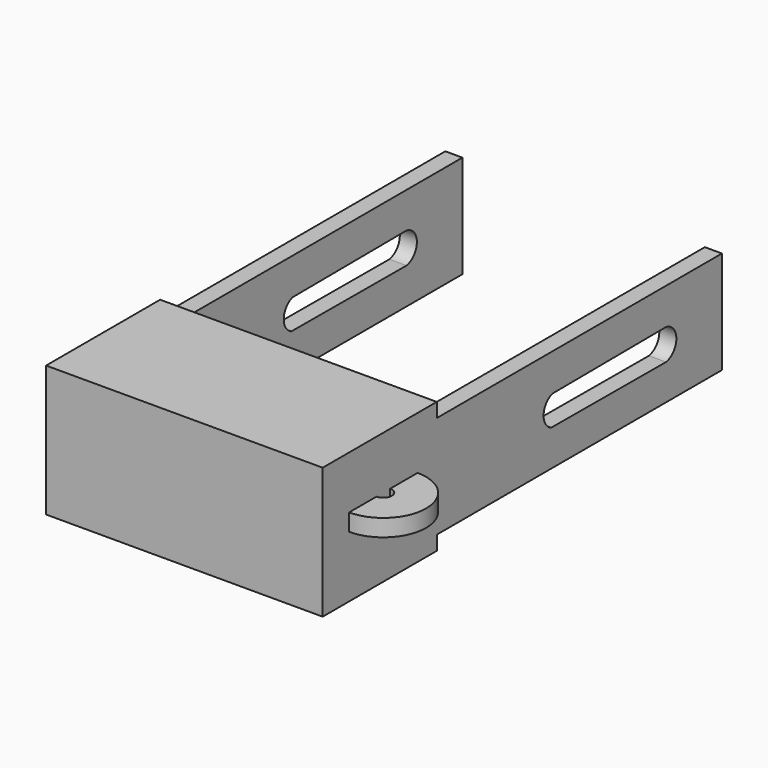
from build123d import *

# Parameters (mm, degrees)
F1_DEPTH = 19.4
F2_DEPTH = 1.2
F3_W     = 25
F3_H     = 7.2
F4_DEPTH = 1.2
F5_W     = 16.95
F5_H     = 7.1
F6_DEPTH = 9
F7_W     = 2.4
F7_H     = 1.2
F8_ANGLE = 180


with BuildPart() as f1:
    # F0 (on Right) → F1 (new body)
    with BuildSketch(Plane.YZ):
        Polygon((-8.6684125125, 6.8394026556), (-18.6684125125, 6.8394026556), (-18.6684125125, -2.3605973444), (-8.6684125125, -2.3605973444), (-8.6684125125, -1.3605973444), (-8.6684125125, 2.2394026556), (-8.6684125125, 5.8394026556), align=None)
    extrude(amount=F1_DEPTH)

    # F0 (on Right) → F2 (join)
    with BuildSketch(Plane.YZ):
        Polygon((-8.6684125125, 6.8394026556), (-18.6684125125, 6.8394026556), (-18.6684125125, -2.3605973444), (-8.6684125125, -2.3605973444), (-8.6684125125, -1.3605973444), (-8.6684125125, 2.2394026556), (-8.6684125125, 5.8394026556), align=None)
        Polygon((16.3315874875, 5.8394026556), (-8.6684125125, 5.8394026556), (-8.6684125125, 2.2394026556), (-8.6684125125, -1.3605973444), (16.3315874875, -1.3605973444), align=None)
        with BuildLine():
            ThreePointArc((1.3315874875, 1.2072022274), (0.6686982275, 2.2757759463), (1.4412960947, 3.267927396))
            Line((1.4412960947, 3.267927396), (11.4315874875, 3.3328592428))
            ThreePointArc((11.4315874875, 3.3328592428), (12.3394869948, 2.2497630325), (11.4315874875, 1.1666668222))
            Line((11.4315874875, 1.1666668222), (1.3315874875, 1.2072022274))
        make_face(mode=Mode.SUBTRACT)
    extrude(amount=F2_DEPTH)

    # F3 (on face) → F4 (join)
    with BuildSketch(Plane.YZ.offset(19.4)):
        with Locations((3.8315874875, 2.2394026556)):
            Rectangle(F3_W, F3_H)
        with BuildLine():
            ThreePointArc((1.3613110944, 1.1667440413), (0.6984218344, 2.2353177601), (1.4710197016, 3.2274692099))
            Line((1.4710197016, 3.2274692099), (11.4315874875, 3.292145016))
            Line((11.4315874875, 3.292145016), (11.4315874875, 3.2924010566))
            ThreePointArc((11.4315874875, 3.2924010566), (11.4322813424, 3.2922777636), (11.4329751181, 3.2921540261))
            ThreePointArc((11.4329751181, 3.2921540261), (12.3394869633, 2.2090418078), (11.4324572213, 1.1263632544))
            ThreePointArc((11.4324572213, 1.1263632544), (11.4320223699, 1.1262858579), (11.4315874875, 1.1262086361))
            Line((11.4315874875, 1.1262086361), (11.4315874875, 1.1263667416))
            Line((11.4315874875, 1.1263667416), (1.3613110944, 1.1667440413))
        make_face(mode=Mode.SUBTRACT)
    extrude(amount=-F4_DEPTH)

    # F5 (on face) → F6 (cut)
    with BuildSketch(Plane(origin=(0, -8.6684125125, 0), x_dir=(-1, 0, 0), z_dir=(0, 1, 0))):
        with Locations((-9.725, 2.2394026556)):
            Rectangle(F5_W, F5_H)
    extrude(amount=-F6_DEPTH, mode=Mode.SUBTRACT)

    # F7 (on face) → F8 (revolve)
    with BuildSketch(Plane.YZ.offset(19.4)):
        with Locations((-11.550808993, 2.5371138187)):
            Rectangle(F7_W, F7_H)
    revolve(axis=Axis((19.4, -13.350808993, 2.5371138187), (0, 0, -1)), revolution_arc=F8_ANGLE)


solid = f1.part
